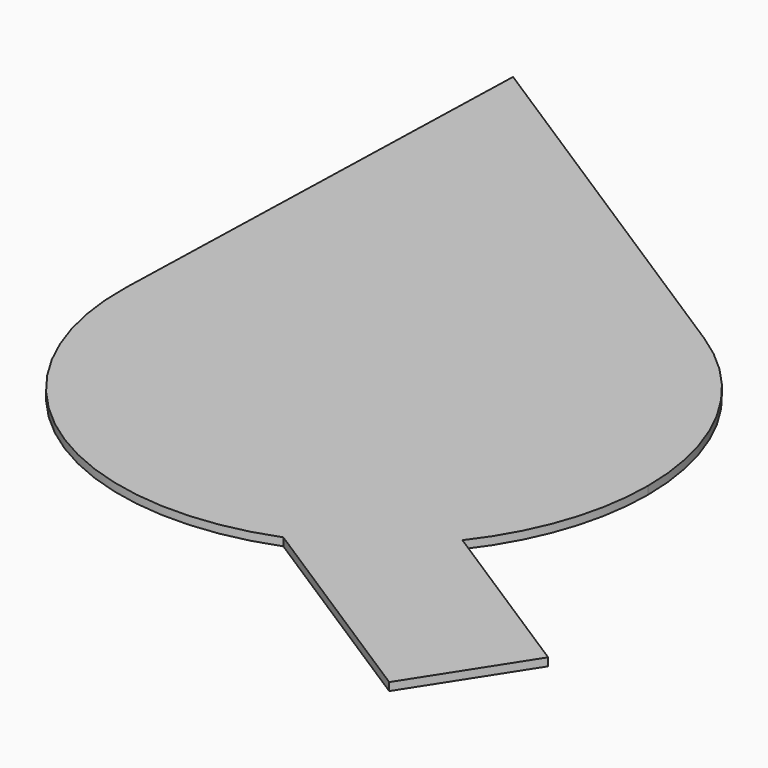
from build123d import *

# Parameters (mm, degrees)
F1_DEPTH = 1.016


with BuildPart() as f1:
    # F0 (on Top) → F1 (new body)
    with BuildSketch(Plane.XY):
        with BuildLine():
            Line((-4.139, 19.660113), (-54.422749, 51.924916))
            Line((-54.422749, 51.924916), (-56.150547, -7.795161))
            ThreePointArc((-56.150547, -7.795161), (-41.837863, -36.389492), (-10.094143, -40.23981))
            Line((-10.094143, -40.23981), (17.741758, -58.094875))
            Line((17.741758, -58.094875), (26.792866, -43.98427))
            Line((26.792866, -43.98427), (4.265871, -29.534551))
            ThreePointArc((4.265871, -29.534551), (9.566227, -19.748967), (11.399325, -8.77212))
            ThreePointArc((11.399325, -8.77212), (7.261307, 7.428431), (-4.139, 19.660113))
        make_face()
    extrude(amount=F1_DEPTH)


solid = f1.part
